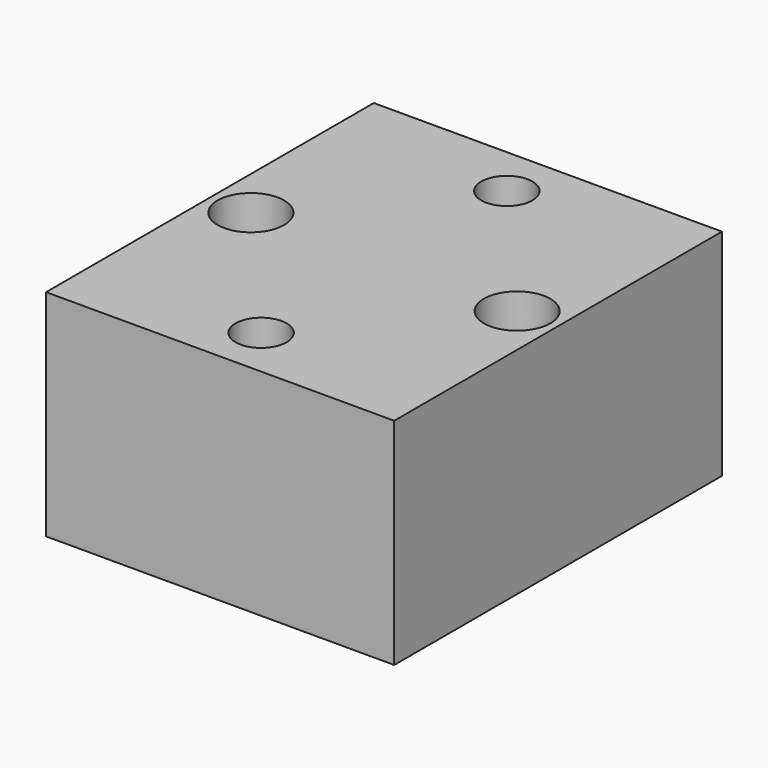
from build123d import *

# Parameters (mm, degrees)
F0_W           = 34
F0_H           = 40
F1_DEPTH       = 21
F3_D           = 3.3
F3_CBORE_D     = 6.5
F3_CBORE_DEPTH = 10
F4_D           = 5


with BuildPart() as f1:
    # F0 (on Top) → F1 (new body)
    with BuildSketch(Plane.XY):
        with Locations((-19.8004702032, -43.8329163194)):
            Rectangle(F0_W, F0_H)
    extrude(amount=F1_DEPTH)

    # F3 (through all)
    with Locations(Plane.XY.offset(21)):
        with Locations((-32.8004702032, -43.8329163194), (-6.8004702032, -43.8329163194)):
            CounterBoreHole(F3_D / 2, F3_CBORE_D / 2, F3_CBORE_DEPTH)

    # F4 (through all)
    with Locations(Plane.XY.offset(21)):
        with Locations((-19.8004702032, -28.8329163194), (-19.8004702032, -58.8329163194)):
            Hole(F4_D / 2)


solid = f1.part
